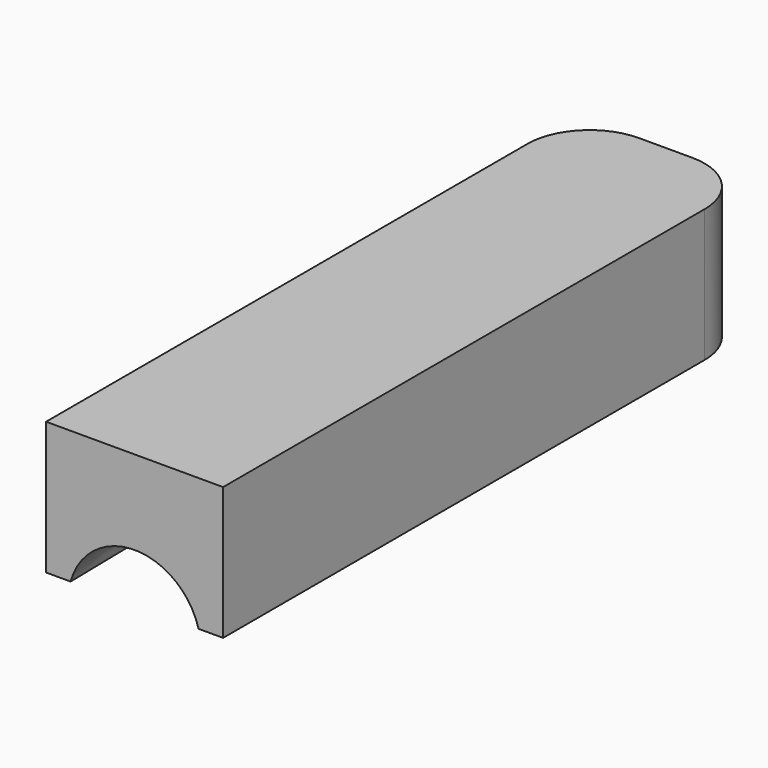
from build123d import *

# Parameters (mm, degrees)
F1_DEPTH = 15
F2_R     = 7.5


with BuildPart() as f1:
    # F0 (on Top) → F1 (new body)
    with BuildSketch(Plane.XY):
        with BuildLine():
            Line((-10, 58), (-10, -10))
            Line((-10, -10), (10, -10))
            Line((10, -10), (10, 58))
            ThreePointArc((10, 58), (7.9497474683, 62.9497474683), (3, 65))
            Line((3, 65), (-3, 65))
            ThreePointArc((-3, 65), (-7.9497474683, 62.9497474683), (-10, 58))
        make_face()
    extrude(amount=F1_DEPTH)

    # F4: sweep along a path in F3
    with BuildLine(Plane.YZ) as f4_path:
        Line((65, 5), (-10, -1))
    # F2 (on face) → F4 (sweep, cut)
    with BuildSketch(Plane(origin=(0, 65, 0), x_dir=(-1, 0, 0), z_dir=(0, 1, 0))):
        with Locations((0, 4)):
            Circle(F2_R)
    sweep(path=f4_path.line, mode=Mode.SUBTRACT)


solid = f1.part
